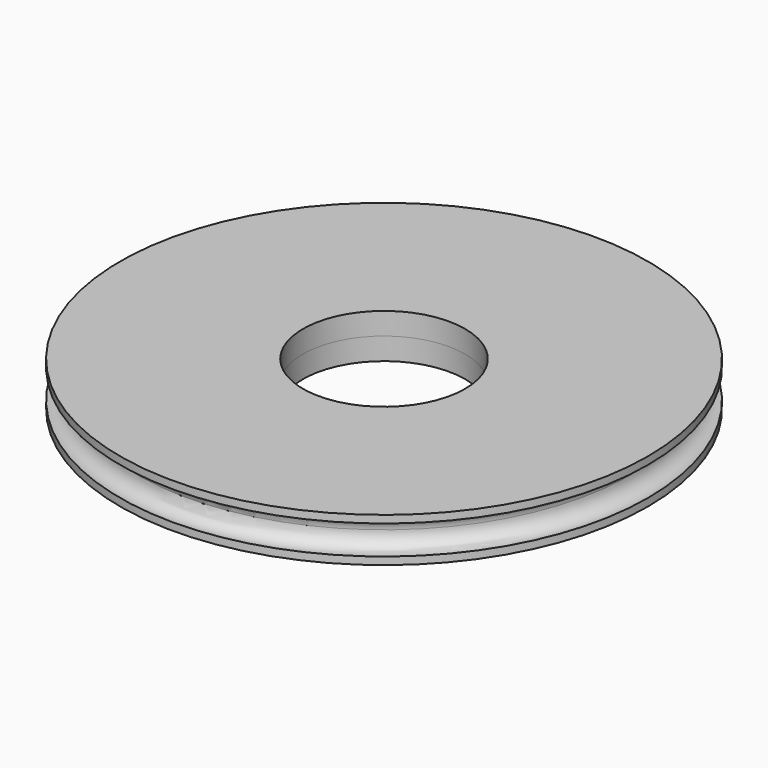
from build123d import *

# Parameters (mm, degrees)
F0_R          = 8.95
F1_DEPTH      = 0.75
F1_DEPTH_BACK = 0.75
F2_R          = 0.5
F4_R          = 2.75
F5_DEPTH      = 30.7
F5_DEPTH_BACK = 27


with BuildPart() as f1:
    # F0 (on Top) → F1 (new body, two sides)
    with BuildSketch(Plane.XY) as f1_sk:
        Circle(F0_R)
    extrude(amount=-F1_DEPTH)
    extrude(f1_sk.sketch, amount=F1_DEPTH_BACK)

    # F2 (on Front) → F3 (revolve, cut)
    with BuildSketch(Plane.XZ):
        with Locations((-8.8674183935, 0)):
            Circle(F2_R)
    revolve(axis=Axis((0, 0, -0.3013146343), (0, 0, -1)), mode=Mode.SUBTRACT)

    # F4 (on Top) → F5 (cut, two sides)
    with BuildSketch(Plane.XY) as f5_sk:
        Circle(F4_R)
    extrude(amount=-F5_DEPTH, mode=Mode.SUBTRACT)
    extrude(f5_sk.sketch, amount=F5_DEPTH_BACK, mode=Mode.SUBTRACT)


solid = f1.part
